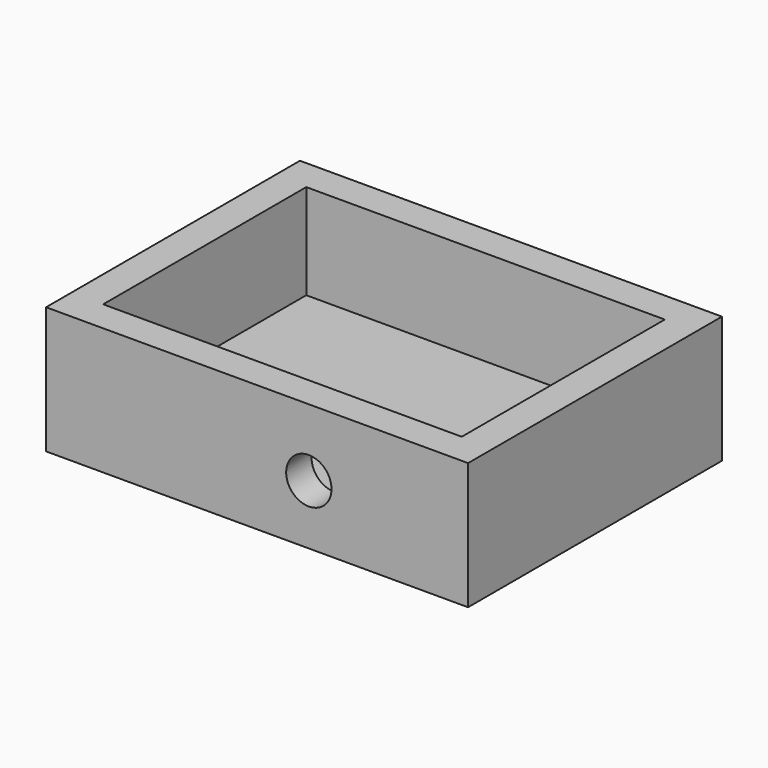
from build123d import *

# Parameters (mm, degrees)
F0_W     = 168.91
F0_H     = 127
F1_DEPTH = 50.8
F2_W     = 143.51
F2_H     = 101.6
F3_DEPTH = 38.1
F4_R     = 9.076536
F5_DEPTH = 25.4


with BuildPart() as f1:
    # F0 (on Top) → F1 (new body)
    with BuildSketch(Plane.XY):
        Rectangle(F0_W, F0_H)
    extrude(amount=F1_DEPTH)

    # F2 (on face) → F3 (cut)
    with BuildSketch(Plane.XY.offset(50.8)):
        Rectangle(F2_W, F2_H)
    extrude(amount=-F3_DEPTH, mode=Mode.SUBTRACT)

    # F4 (on face) → F5 (cut)
    with BuildSketch(Plane.XZ.offset(63.5)):
        with Locations((20.715535, 23.864772)):
            Circle(F4_R)
    extrude(amount=-F5_DEPTH, mode=Mode.SUBTRACT)


solid = f1.part
